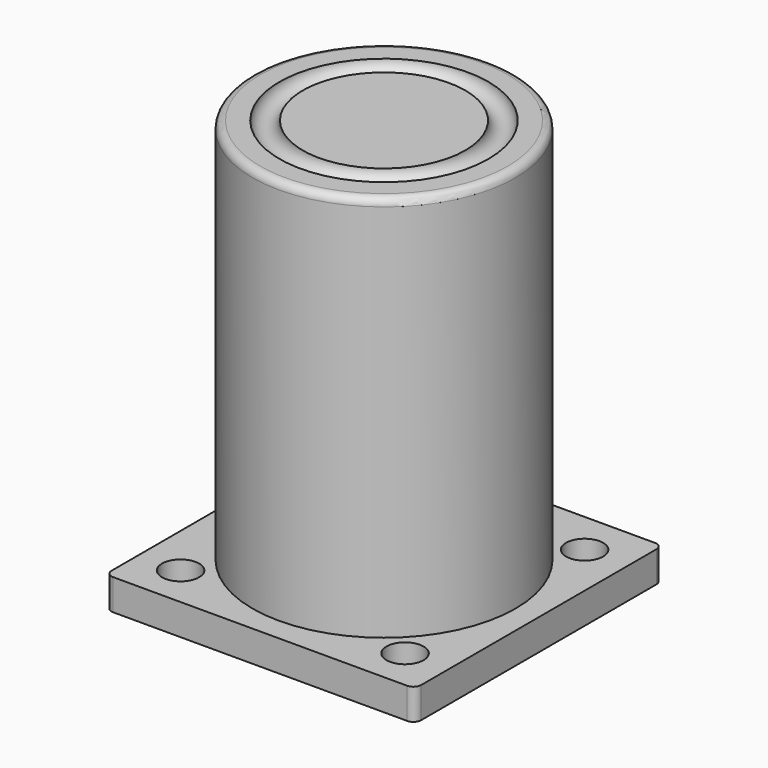
from build123d import *

# Parameters (mm, degrees)
TORUS_R           = 1.5
CYLINDER004_R     = 17
CYLINDER004_DEPTH = 50
FILLET_R          = 1
CYLINDER001_R     = 2.4
CYLINDER001_DEPTH = 3
CYLINDER002_R     = 2.4
CYLINDER002_DEPTH = 3
CYLINDER003_R     = 2.4
CYLINDER003_DEPTH = 3
CYLINDER_R        = 2.4
CYLINDER_DEPTH    = 3
BOX_W             = 40
BOX_H             = 40
BOX_DEPTH         = 4
FILLET001_R       = 1


with BuildPart() as torus:
    # Torus → Torus (revolve)
    with BuildSketch(Plane(origin=(0, 0, 54), x_dir=(1, 0, 0), z_dir=(0, -1, 0))):
        with Locations((12, 0)):
            Circle(TORUS_R)
    revolve(axis=Axis((0, 0, 54), (0, 0, 1)))


with BuildPart() as fillet_body:
    # Cylinder004 → Cylinder004 (new body)
    with BuildSketch(Plane.XY.offset(4)):
        Circle(CYLINDER004_R)
    extrude(amount=CYLINDER004_DEPTH)

    # Cut001: cut Torus
    add(torus.part, mode=Mode.SUBTRACT)

    # Fillet
    fillet_edges = [fillet_body.edges().sort_by_distance(p)[0] for p in [
        (-17, 0, 54),
    ]]
    fillet(fillet_edges, radius=FILLET_R)


with BuildPart() as cilindre001:
    # Cylinder001 → Cylinder001 (new body)
    with BuildSketch(Plane(origin=(34.4, 5.4, 1), x_dir=(1, 0, 0), z_dir=(0, 0, 1))):
        Circle(CYLINDER001_R)
    extrude(amount=CYLINDER001_DEPTH)


with BuildPart() as cilindre002:
    # Cylinder002 → Cylinder002 (new body)
    with BuildSketch(Plane(origin=(34.4, 34.4, 1), x_dir=(1, 0, 0), z_dir=(0, 0, 1))):
        Circle(CYLINDER002_R)
    extrude(amount=CYLINDER002_DEPTH)


with BuildPart() as cilindre003:
    # Cylinder003 → Cylinder003 (new body)
    with BuildSketch(Plane(origin=(5.4, 34.4, 1), x_dir=(1, 0, 0), z_dir=(0, 0, 1))):
        Circle(CYLINDER003_R)
    extrude(amount=CYLINDER003_DEPTH)


with BuildPart() as fusion:
    # Cylinder → Cylinder (new body)
    with BuildSketch(Plane(origin=(5.4, 5.4, 1), x_dir=(1, 0, 0), z_dir=(0, 0, 1))):
        Circle(CYLINDER_R)
    extrude(amount=CYLINDER_DEPTH)

    # Fusion: union Cilindre001, Cilindre002, Cilindre003
    add(cilindre001.part)
    add(cilindre002.part)
    add(cilindre003.part)


with BuildPart() as fillet001:
    # Box → Box (new body)
    with BuildSketch(Plane.XY):
        with Locations((20, 20)):
            Rectangle(BOX_W, BOX_H)
    extrude(amount=BOX_DEPTH)

    # Cut: cut Fusion
    add(fusion.part, mode=Mode.SUBTRACT)


with BuildPart() as fillet001_1:
    # Cut placement: moved
    add(fillet001.part.moved(Location((-20, -20, 0))))

    # Fillet001
    fillet001_edges = [fillet001_1.edges().sort_by_distance(p)[0] for p in [
        (-20, -20, 2),
        (-20, 20, 2),
        (20, -20, 2),
        (20, 20, 2),
    ]]
    fillet(fillet001_edges, radius=FILLET001_R)


solid = Compound([fillet_body.part, fillet001_1.part])
